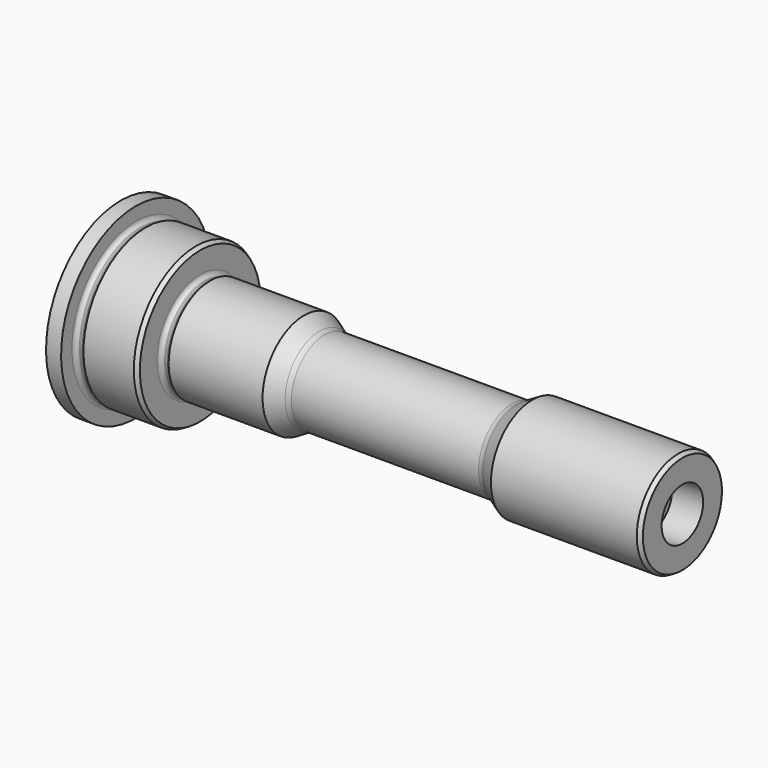
from build123d import *

# Parameters (mm, degrees)
F2_R           = 0.5
F3_SIZE2       = 0.1154700538
F3_SIZE        = 0.2
F3_2_SIZE2     = 0.1154700538
F3_2_SIZE      = 0.2
F6_D           = 1.2
F6_DEPTH       = 2
F6_TIP         = 0.3605163714
F7_D           = 1
F7_DEPTH       = 2.2
F7_CSINK_D     = 2
F7_CSINK_ANGLE = 60
F7_TIP         = 0.3004303095
F8_D           = 2
F8_DEPTH       = 8.5
F8_CBORE_D     = 2.5
F8_CBORE_DEPTH = 1.5
F8_TIP         = 0.600860619


with BuildPart() as f1:
    # F0 (on Front) → F1 (revolve)
    with BuildSketch(Plane.XZ):
        with BuildLine():
            Line((0, 4.5), (0, 0))
            Line((0, 0), (27.05, 0))
            Line((27.05, 0), (27.05, 2.49625))
            Line((27.05, 2.49625), (19.825, 2.49625))
            Line((19.825, 2.49625), (18.9654697867, 2))
            Line((18.9654697867, 2), (9.6845302133, 2))
            Line((9.6845302133, 2), (8.825, 2.49625))
            Line((8.825, 2.49625), (4.302, 2.49625))
            Line((4.302, 2.49625), (4.1752050808, 2.4230449192))
            ThreePointArc((4.1752050808, 2.4230449192), (4.1269688898, 2.4030648347), (4.0752050808, 2.39625))
            Line((4.0752050808, 2.39625), (4.025, 2.39625))
            ThreePointArc((4.025, 2.39625), (3.8835786438, 2.4548286438), (3.825, 2.59625))
            Line((3.825, 2.59625), (3.825, 3.74825))
            Line((3.825, 3.74825), (1.202, 3.74825))
            Line((1.202, 3.74825), (1.0752050808, 3.6750449192))
            ThreePointArc((1.0752050808, 3.6750449192), (1.0269688898, 3.6550648347), (0.9752050808, 3.64825))
            Line((0.9752050808, 3.64825), (0.925, 3.64825))
            ThreePointArc((0.925, 3.64825), (0.7835786438, 3.7068286438), (0.725, 3.84825))
            Line((0.725, 3.84825), (0.725, 4.5))
            Line((0.725, 4.5), (0, 4.5))
        make_face()
    revolve(axis=Axis((13.525, 0, 0), (-1, 0, 0)))

    # F2
    f2_edges = [f1.edges().sort_by_distance(p)[0] for p in [
        (9.68453, 0, -2),
        (18.96547, 0, -2),
    ]]
    fillet(f2_edges, radius=F2_R)

    # F3
    f3_edges = [f1.edges().sort_by_distance(p)[0] for p in [
        (27.05, 0, -2.49625),
    ]]
    f3_side = f1.faces().sort_by_distance((23.4375, 0, -2.49625))[0]
    chamfer(f3_edges, length=F3_SIZE, length2=F3_SIZE2, reference=f3_side)

    # F3#2
    f3_2_edges = [f1.edges().sort_by_distance(p)[0] for p in [
        (3.825, 0, -3.74825),
    ]]
    f3_2_side = f1.faces().sort_by_distance((2.5135, 0, -3.74825))[0]
    chamfer(f3_2_edges, length=F3_2_SIZE, length2=F3_2_SIZE2, reference=f3_2_side)

    # F6
    with Locations(Plane(origin=(0, 0, 0), x_dir=(0, -1, 0), z_dir=(-1, 0, 0))):
        with Locations((0, 2), (0, -2)):
            Hole(F6_D / 2, depth=F6_DEPTH)
            with Locations((0, 0, -(F6_DEPTH + F6_TIP / 2))):  # 118° drill point
                Cone(0, F6_D / 2, F6_TIP, mode=Mode.SUBTRACT)

    # F7
    with Locations(Plane(origin=(0, 0, 0), x_dir=(0, -1, 0), z_dir=(-1, 0, 0))):
        with Locations((0, 0)):
            CounterSinkHole(F7_D / 2, F7_CSINK_D / 2, depth=F7_DEPTH, counter_sink_angle=F7_CSINK_ANGLE)
            with Locations((0, 0, -(F7_DEPTH + F7_TIP / 2))):  # 118° drill point
                Cone(0, F7_D / 2, F7_TIP, mode=Mode.SUBTRACT)

    # F8
    with Locations(Plane.YZ.offset(27.05)):
        with Locations((0, 0)):
            CounterBoreHole(F8_D / 2, F8_CBORE_D / 2, F8_CBORE_DEPTH, depth=F8_DEPTH)
            with Locations((0, 0, -(F8_DEPTH + F8_TIP / 2))):  # 118° drill point
                Cone(0, F8_D / 2, F8_TIP, mode=Mode.SUBTRACT)


solid = f1.part
